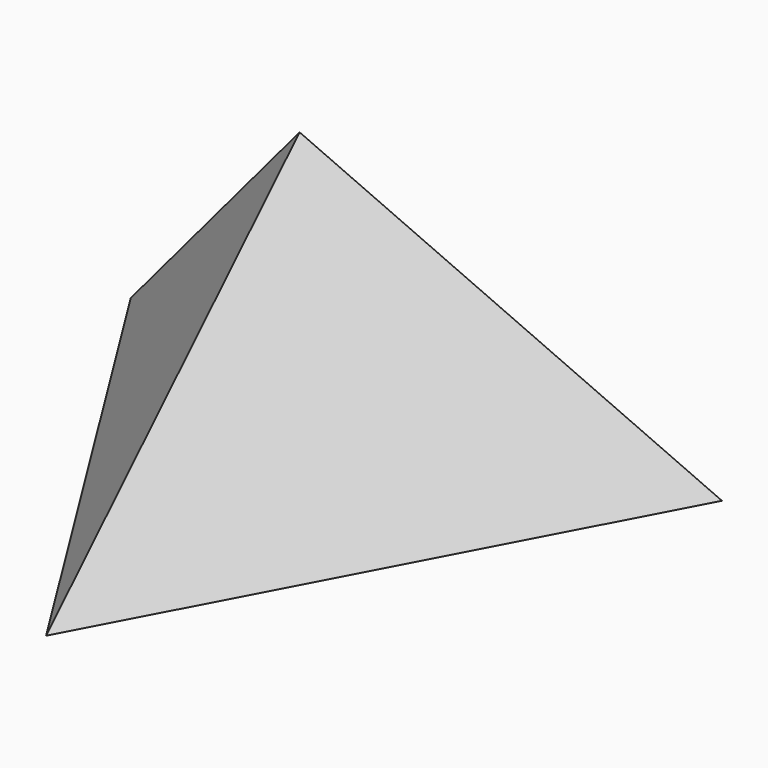
from build123d import *


with BuildPart() as f3:
    # F0 (on Top) → F3 section 0
    with BuildSketch(Plane.XY, mode=Mode.PRIVATE) as f3_s0:
        Polygon((3.907534, -108.947695), (92.397705, 57.857871), (-96.305239, 51.089824), align=None)
    loft([f3_s0.sketch, Vertex(0, 0, 100)])


solid = f3.part
